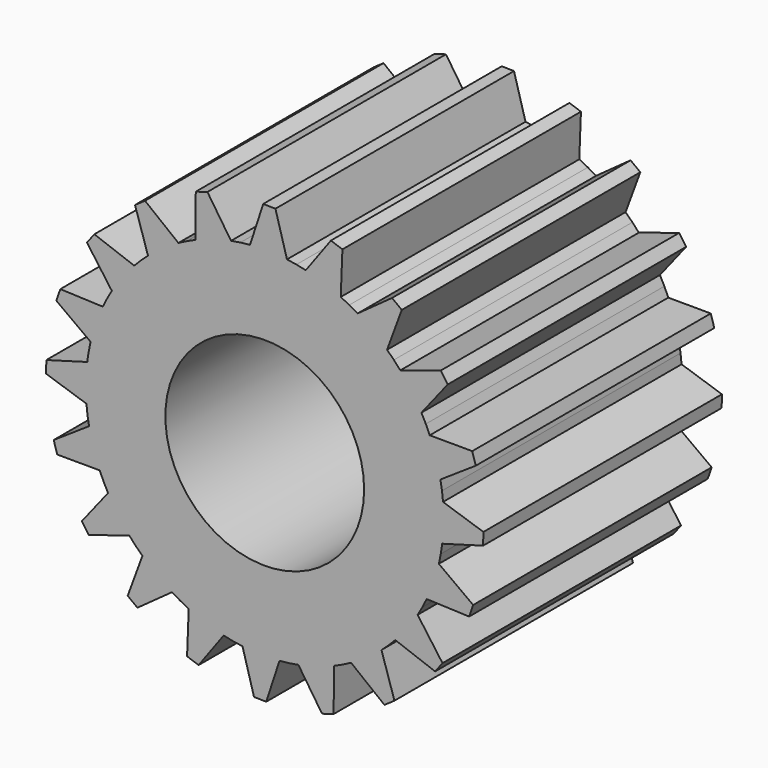
from build123d import *

# Parameters (mm, degrees)
F0_R     = 10
F1_DEPTH = 15


with BuildPart() as f1:
    # F0 (on Front) → F1 (new body, symmetric)
    with BuildSketch(Plane.XZ):
        Polygon((4.132737753, 17.5191460598), (3.1904651552, 17.7149917328), (2.2390718331, 17.8601947729), (1.0773774715, 21.9736036595), (-0.1489718291, 21.9994956168), (-1.4832466893, 17.9387842191), (-2.4399208248, 17.8338662765), (-3.3896198503, 17.6779658691), (-5.7655700937, 21.2310668949), (-6.9398986421, 20.8767288347), (-6.9540406112, 16.6024491921), (-7.8314703545, 16.2070377332), (-8.686511926, 15.7652944965), (-12.044143487, 18.4102853771), (-13.0514998229, 17.7104023775), (-11.7441245865, 13.6409507622), (-12.4564210009, 12.9937514156), (-13.1331076918, 12.3094062552), (-17.1437521993, 13.7873768545), (-17.8855292658, 12.81045834), (-15.3846118211, 9.3441810296), (-15.8620503707, 8.5085461765), (-16.294143373, 7.648587565), (-20.5652109988, 7.8148638232), (-20.9687984885, 6.6565373844), (-17.5191460598, 4.132737753), (-17.7149917328, 3.1904651552), (-17.8601947729, 2.2390718331), (-21.9736036595, 1.0773774715), (-21.9994956168, -0.1489718291), (-17.9387842191, -1.4832466893), (-17.8338662765, -2.4399208248), (-17.6779658691, -3.3896198503), (-21.2310668949, -5.7655700937), (-20.8767288347, -6.9398986421), (-16.6024491921, -6.9540406112), (-16.2070377332, -7.8314703545), (-15.7652944965, -8.686511926), (-18.4102853771, -12.044143487), (-17.7104023775, -13.0514998229), (-13.6409507622, -11.7441245865), (-12.9937514156, -12.4564210009), (-12.3094062552, -13.1331076918), (-13.7873768545, -17.1437521993), (-12.81045834, -17.8855292658), (-9.3441810296, -15.3846118211), (-8.5085461765, -15.8620503707), (-7.648587565, -16.294143373), (-7.8148638232, -20.5652109988), (-6.6565373844, -20.9687984885), (-4.132737753, -17.5191460598), (-3.1904651552, -17.7149917328), (-2.2390718331, -17.8601947729), (-1.0773774715, -21.9736036595), (0.1489718291, -21.9994956168), (1.4832466893, -17.9387842191), (2.4399208248, -17.8338662765), (3.3896198503, -17.6779658691), (5.7655700937, -21.2310668949), (6.9398986421, -20.8767288347), (6.9540406112, -16.6024491921), (7.8314703545, -16.2070377332), (8.686511926, -15.7652944965), (12.044143487, -18.4102853771), (13.0514998229, -17.7104023775), (11.7441245865, -13.6409507622), (12.4564210009, -12.9937514156), (13.1331076918, -12.3094062552), (17.1437521993, -13.7873768545), (17.8855292658, -12.81045834), (15.3846118211, -9.3441810296), (15.8620503707, -8.5085461765), (16.294143373, -7.648587565), (20.5652109988, -7.8148638232), (20.9687984885, -6.6565373844), (17.5191460598, -4.132737753), (17.7149917328, -3.1904651552), (17.8601947729, -2.2390718331), (21.9736036595, -1.0773774715), (21.9994956168, 0.1489718291), (17.9387842191, 1.4832466893), (17.8338662765, 2.4399208248), (17.6779658691, 3.3896198503), (21.2310668949, 5.7655700937), (20.8767288347, 6.9398986421), (16.6024491921, 6.9540406112), (16.2070377332, 7.8314703545), (15.7652944965, 8.686511926), (18.4102853771, 12.044143487), (17.7104023775, 13.0514998229), (13.6409507622, 11.7441245865), (12.9937514156, 12.4564210009), (12.3094062552, 13.1331076918), (13.7873768545, 17.1437521993), (12.81045834, 17.8855292658), (9.3441810296, 15.3846118211), (8.5085461765, 15.8620503707), (7.648587565, 16.294143373), (7.8148638232, 20.5652109988), (6.6565373844, 20.9687984885), align=None)
        Circle(F0_R, mode=Mode.SUBTRACT)
    extrude(amount=F1_DEPTH, both=True)


solid = f1.part
